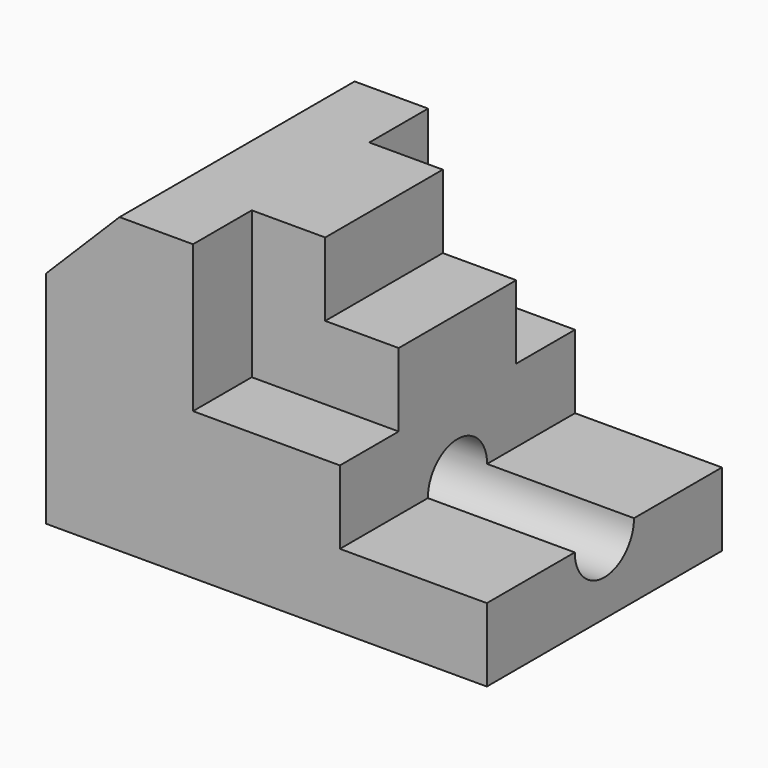
from build123d import *

# Parameters (mm, degrees)
F1_DEPTH = 25.4
F3_DEPTH = 12.7
F5_DEPTH = 12.7
F6_R     = 6.4018672909
F7_DEPTH = 76.201


with BuildPart() as f1:
    # F0 (on Front) → F1 (new body, symmetric)
    with BuildSketch(Plane.XZ):
        Polygon((0, 38.1), (0, 0), (76.2, 0), (76.2, 12.7), (50.8, 12.7), (50.8, 38.1), (38.1, 38.1), (38.1, 50.8), (12.7, 50.8), align=None)
    extrude(amount=F1_DEPTH, both=True)

    # F2 (on face) → F3 (cut)
    with BuildSketch(Plane.XZ.offset(25.4)):
        Polygon((25.4, 25.4), (50.8, 25.4), (50.8, 38.1), (38.1, 38.1), (38.1, 50.8), (25.4, 50.8), align=None)
    extrude(amount=-F3_DEPTH, mode=Mode.SUBTRACT)

    # F4 (on face) → F5 (cut)
    with BuildSketch(Plane(origin=(0, 25.4, 0), x_dir=(-1, 0, 0), z_dir=(0, 1, 0))):
        Polygon((-50.8, 38.1), (-50.8, 25.4), (-25.4, 25.4), (-25.4, 50.8), (-38.1, 50.8), (-38.1, 38.1), align=None)
    extrude(amount=-F5_DEPTH, mode=Mode.SUBTRACT)

    # F6 (on Right) → F7 (cut, through all)
    with BuildSketch(Plane.YZ):
        with Locations((0, 12.7)):
            Circle(F6_R)
    extrude(amount=F7_DEPTH, mode=Mode.SUBTRACT)


solid = f1.part
